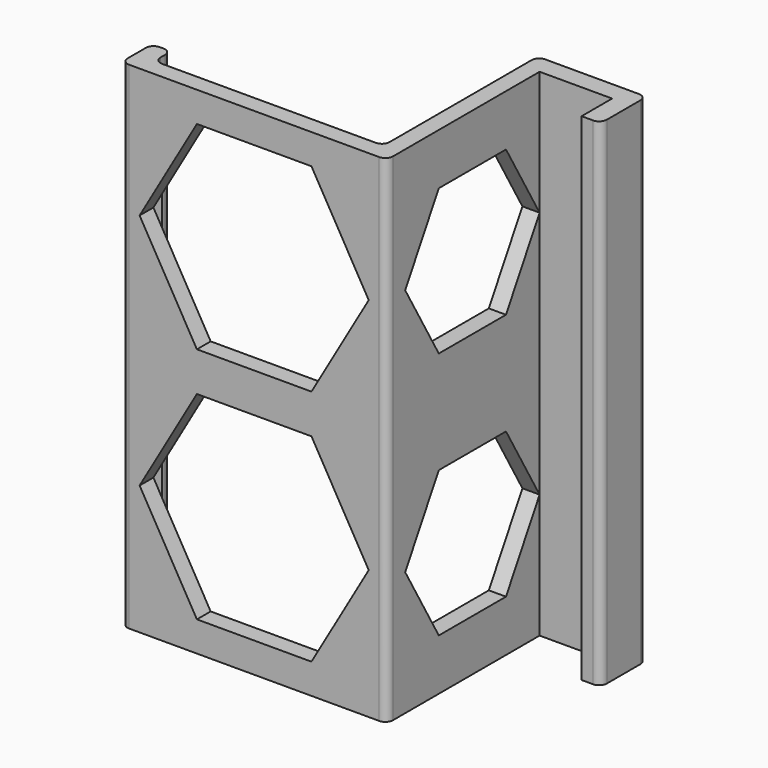
from build123d import *

# Parameters (mm, degrees)
F0_W     = 19
F0_H     = 5
F1_DEPTH = 130
F3_DEPTH = 4.508144
F5_DEPTH = 4.5


with BuildPart() as f1:
    # F0 (on Top) → F1 (new body)
    with BuildSketch(Plane.XY):
        with BuildLine():
            Line((0, 51.608194), (-2.5, 51.608194))
            ThreePointArc((-2.5, 51.608194), (-3.914214, 51.022407), (-4.5, 49.608194))
            Line((-4.5, 49.608194), (-4.5, 3.116338))
            ThreePointArc((-4.5, 3.116338), (-5.085786, 1.702124), (-6.5, 1.116338))
            Line((-6.5, 1.116338), (-62.5, 1.116338))
            ThreePointArc((-62.5, 1.116338), (-63.914214, 1.702124), (-64.5, 3.116338))
            Line((-64.5, 3.116338), (-64.5, 4.608194))
            ThreePointArc((-64.5, 4.608194), (-65.085786, 6.022407), (-66.5, 6.608194))
            Line((-66.5, 6.608194), (-67.5, 6.608194))
            ThreePointArc((-67.5, 6.608194), (-68.914214, 6.022407), (-69.5, 4.608194))
            Line((-69.5, 4.608194), (-69.5, -1.391806))
            ThreePointArc((-69.5, -1.391806), (-68.914214, -2.80602), (-67.5, -3.391806))
            Line((-67.5, -3.391806), (-2, -3.391806))
            ThreePointArc((-2, -3.391806), (-0.585786, -2.80602), (0, -1.391806))
            Line((0, -1.391806), (0, 0))
            Line((0, 0), (0, 46.608194))
            Line((0, 46.608194), (0, 51.608194))
        make_face()
        with Locations((9.5, 49.108194)):
            Rectangle(F0_W, F0_H)
        with BuildLine():
            Line((22, 51.608194), (19, 51.608194))
            Line((19, 51.608194), (19, 46.608194))
            Line((19, 46.608194), (19, 36.608194))
            Line((19, 36.608194), (22, 36.608194))
            ThreePointArc((22, 36.608194), (23.414214, 37.19398), (24, 38.608194))
            Line((24, 38.608194), (24, 49.608194))
            ThreePointArc((24, 49.608194), (23.414214, 51.022407), (22, 51.608194))
        make_face()
    extrude(amount=F1_DEPTH)

    # F2 (on face) → F3 (cut, through all)
    with BuildSketch(Plane.XZ.offset(3.391806)):
        Polygon((-49.75, 122.112247), (-64.75, 96.131485), (-49.75, 70.150723), (-19.75, 70.150723), (-4.75, 96.131485), (-19.75, 122.112247), align=None)
        Polygon((-49.75, 59.849277), (-64.75, 33.868515), (-49.75, 7.887753), (-19.75, 7.887753), (-4.75, 33.868515), (-19.75, 59.849277), align=None)
    extrude(amount=-F3_DEPTH, mode=Mode.SUBTRACT)

    # F4 (on face) → F5 (cut, through all)
    with BuildSketch(Plane.YZ):
        Polygon((35.608194, 78.447441), (46.608194, 97.5), (35.608194, 116.552559), (13.608194, 116.552559), (2.608194, 97.5), (13.608194, 78.447441), align=None)
        Polygon((35.608194, 51.552559), (13.608194, 51.552559), (2.608194, 32.5), (13.608194, 13.447441), (35.608194, 13.447441), (46.608194, 32.5), align=None)
    extrude(amount=-F5_DEPTH, mode=Mode.SUBTRACT)


solid = f1.part
